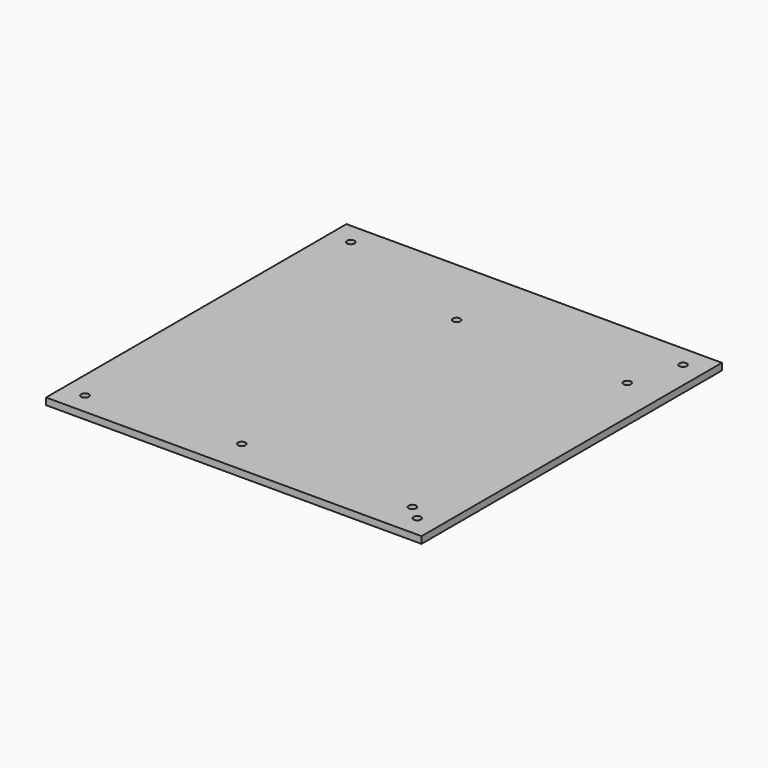
from build123d import *

# Parameters (mm, degrees)
F0_W     = 165
F0_H     = 165
F1_DEPTH = 3
F2_D     = 3.3
F2_DEPTH = 15
F2_TIP   = 0.9914200214


with BuildPart() as f1:
    # F0 (on Top) → F1 (new body)
    with BuildSketch(Plane.XY):
        Rectangle(F0_W, F0_H)
    extrude(amount=F1_DEPTH)

    # F2
    with Locations(Plane(origin=(0, 0, 0), x_dir=(1, 0, 0), z_dir=(0, 0, -1))):
        with Locations((-73, -73), (73, -73), (-8.5, -50.5), (66.5, -50.5), (66.5, 67.5), (-8.5, 67.5), (73, 73), (-73, 73)):
            Hole(F2_D / 2, depth=F2_DEPTH)
            with Locations((0, 0, -(F2_DEPTH + F2_TIP / 2))):  # 118° drill point
                Cone(0, F2_D / 2, F2_TIP, mode=Mode.SUBTRACT)


solid = f1.part
